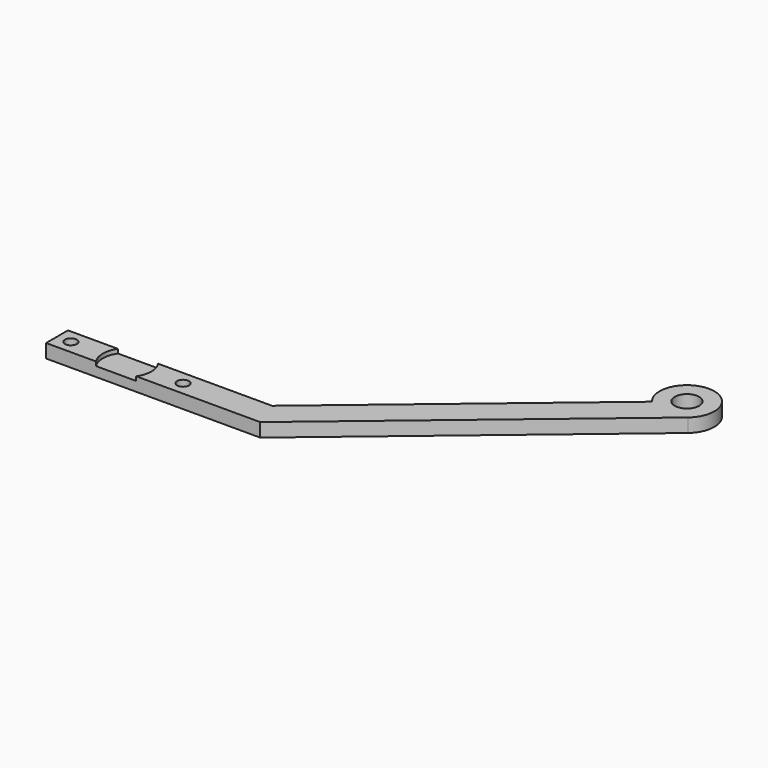
from build123d import *

# Parameters (mm, degrees)
F0_R     = 1.1049
F0_R_2   = 2.2711665082
F1_DEPTH = 2.54
F3_DEPTH = 0.762


with BuildPart() as f1:
    # F0 (on Top) → F1 (new body)
    with BuildSketch(Plane.XY):
        with BuildLine():
            Line((20.0254211358, 10.6504917759), (-4.8932405656, 10.6504917759))
            Line((-4.8932405656, 10.6504917759), (-15.3309644214, 10.6504917759))
            Line((-15.3309644214, 10.6504917759), (-17.8893100741, 10.6504917759))
            Line((-17.8893100741, 10.6504917759), (-17.8893100741, 7.7587923859))
            Line((-17.8893100741, 7.7587923859), (-17.8893100741, 6.9155367665))
            Line((-17.8893100741, 6.9155367665), (-17.8893100741, 5.5704917759))
            Line((-17.8893100741, 5.5704917759), (-15.2188334614, 5.5704917759))
            Line((-15.2188334614, 5.5704917759), (-4.8932405656, 5.5704917759))
            Line((-4.8932405656, 5.5704917759), (21.8743899259, 5.5704917759))
            Line((21.8743899259, 5.5704917759), (69.3896753903, 45.4405502844))
            ThreePointArc((69.3896753903, 45.4405502844), (66.5670655063, 54.3927251217), (62.2328085621, 46.0666949982))
            Line((62.2328085621, 46.0666949982), (20.0254211358, 10.6504917759))
        make_face()
        with Locations((-15.3072405656, 8.1104917759)):
            Circle(F0_R, mode=Mode.SUBTRACT)
        with Locations((5.5207594344, 8.1104917759)):
            Circle(F0_R, mode=Mode.SUBTRACT)
        with Locations((66.1243143331, 49.3320560554)):
            Circle(F0_R_2, mode=Mode.SUBTRACT)
    extrude(amount=F1_DEPTH)

    # F2 (on face) → F3 (cut)
    with BuildSketch(Plane.XY.offset(2.54)):
        with BuildLine():
            ThreePointArc((-1.155628184, 5.5704917759), (-0.5723890059, 6.7814310591), (-0.3720405656, 8.1104917759))
            ThreePointArc((-0.3720405656, 8.1104917759), (-0.5723890059, 9.4395524927), (-1.155628184, 10.6504917759))
            Line((-1.155628184, 10.6504917759), (-8.6054529471, 10.6504917759))
            ThreePointArc((-8.6054529471, 10.6504917759), (-9.3890405656, 8.1104917759), (-8.6054529471, 5.5704917759))
            Line((-8.6054529471, 5.5704917759), (-1.155628184, 5.5704917759))
        make_face()
        with BuildLine():
            ThreePointArc((-1.155628184, 5.5704917759), (-0.5723890059, 6.7814310591), (-0.3720405656, 8.1104917759))
            ThreePointArc((-0.3720405656, 8.1104917759), (-0.5723890059, 9.4395524927), (-1.155628184, 10.6504917759))
            Line((-1.155628184, 10.6504917759), (-8.6054529471, 10.6504917759))
            ThreePointArc((-8.6054529471, 10.6504917759), (-9.3890405656, 8.1104917759), (-8.6054529471, 5.5704917759))
            Line((-8.6054529471, 5.5704917759), (-1.155628184, 5.5704917759))
        make_face()
    extrude(amount=-F3_DEPTH, mode=Mode.SUBTRACT)


solid = f1.part
